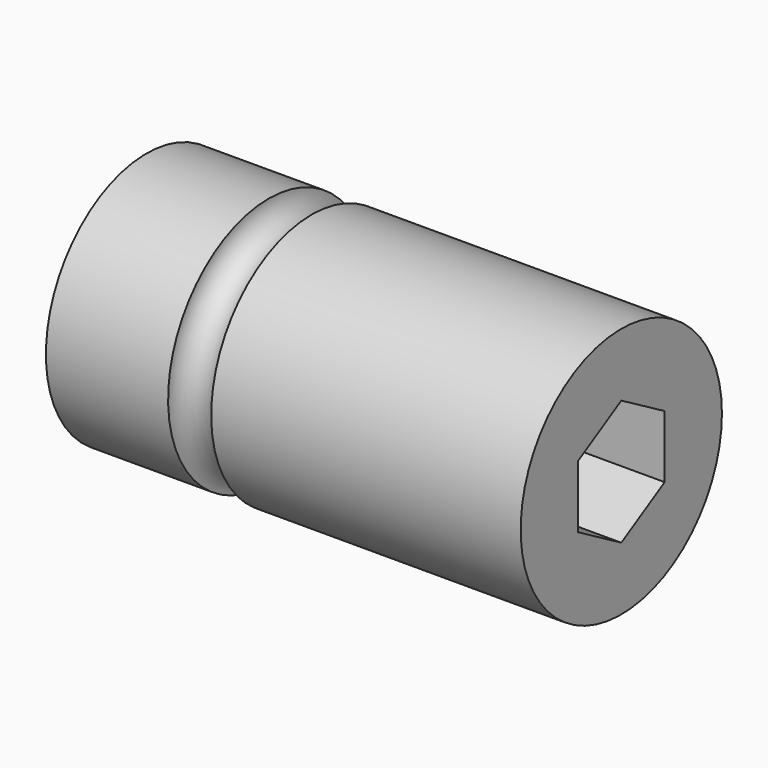
from build123d import *

# Parameters (mm, degrees)
F0_R     = 11.1125
F1_DEPTH = 41.9481
F3_DEPTH = 9.525
F5_D     = 7.9375
F5_DEPTH = 34.7472
F5_TIP   = 2.3846655818
F6_R     = 1.905


with BuildPart() as f1:
    # F0 (on Right) → F1 (new body)
    with BuildSketch(Plane.YZ):
        Circle(F0_R)
    extrude(amount=-F1_DEPTH)

    # F2 (on Right) → F3 (cut)
    with BuildSketch(Plane.YZ):
        Polygon((4.7879, -2.7642953539), (4.7879, 2.7642953539), (0, 5.5285907077), (-4.7879, 2.7642953539), (-4.7879, -2.7642953539), (0, -5.5285907077), align=None)
    extrude(amount=-F3_DEPTH, mode=Mode.SUBTRACT)

    # F5
    with Locations(Plane(origin=(-41.9481, 0, 0), x_dir=(0, -1, 0), z_dir=(-1, 0, 0))):
        with Locations((0, 0)):
            Hole(F5_D / 2, depth=F5_DEPTH)
            with Locations((0, 0, -(F5_DEPTH + F5_TIP / 2))):  # 118° drill point
                Cone(0, F5_D / 2, F5_TIP, mode=Mode.SUBTRACT)

    # F6 (on Front) → F7 (revolve, cut)
    with BuildSketch(Plane.XZ):
        with Locations((-29.2481, 11.1125)):
            Circle(F6_R)
    revolve(axis=Axis((-32.1425274014, 0, 0), (-1, 0, 0)), mode=Mode.SUBTRACT)


solid = f1.part
